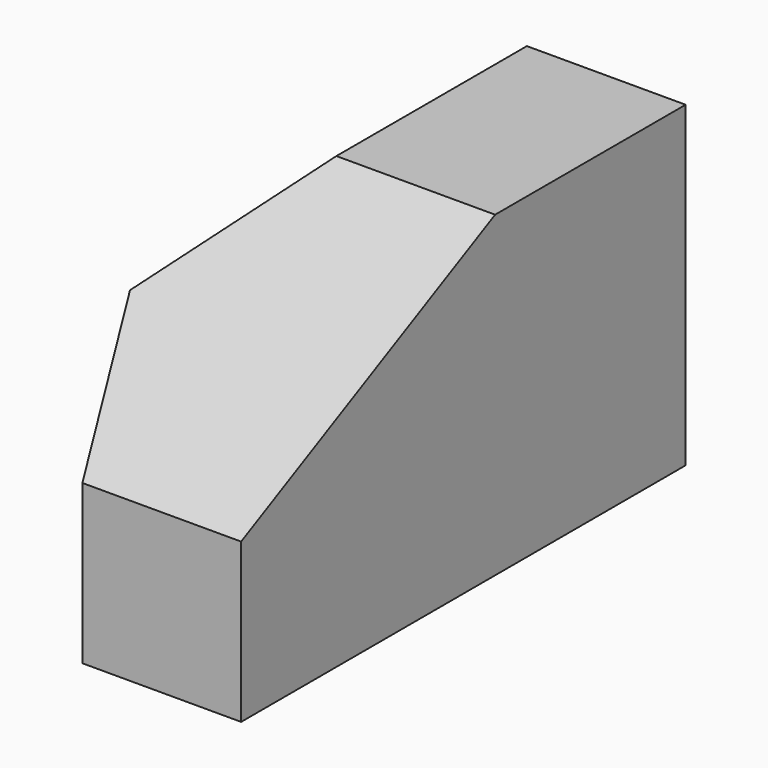
from build123d import *

# Parameters (mm, degrees)
F1_DEPTH = 70
F3_DEPTH = 40.001
F5_DEPTH = 40.001


with BuildPart() as f1:
    # F0 (on Front) → F1 (new body)
    with BuildSketch(Plane.XZ):
        Polygon((0, 20), (0, 0), (40, 0), (40, 40), (20, 40), align=None)
    extrude(amount=F1_DEPTH)

    # F2 (on face) → F3 (cut, through all)
    with BuildSketch(Plane(origin=(0, 0, 0), x_dir=(1, 0, 0), z_dir=(0, 0, -1))):
        Polygon((0, 30), (20, 70), (0, 70), align=None)
    extrude(amount=-F3_DEPTH, mode=Mode.SUBTRACT)

    # F4 (on face) → F5 (cut, through all)
    with BuildSketch(Plane.YZ.offset(40)):
        Polygon((-70, 40), (-70, 20), (-30, 40), align=None)
    extrude(amount=-F5_DEPTH, mode=Mode.SUBTRACT)


solid = f1.part
